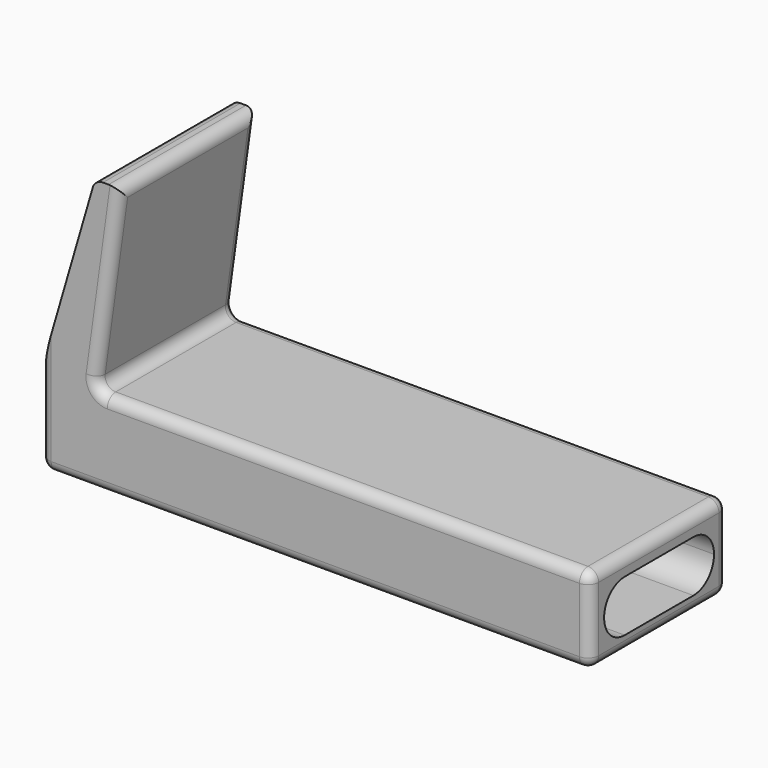
from build123d import *

# Parameters (mm, degrees)
F1_DEPTH = 25.4
F2_R     = 1.5748
F4_DEPTH = 63.5


with BuildPart() as f1:
    # F0 (on Front) → F1 (new body)
    with BuildSketch(Plane.XZ):
        with BuildLine():
            Line((-45.4608029084, -0.1458625454), (32.6695970916, -0.1458625454))
            ThreePointArc((32.6695970916, -0.1458625454), (33.7831488506, 0.3153856956), (34.2443970916, 1.4289374546))
            Line((34.2443970916, 1.4289374546), (34.2443970916, 10.9793374546))
            ThreePointArc((34.2443970916, 10.9793374546), (33.7831488506, 12.0928892136), (32.6695970916, 12.5541374546))
            Line((32.6695970916, 12.5541374546), (-37.1709763854, 12.5541374546))
            ThreePointArc((-37.1709763854, 12.5541374546), (-38.357974904, 13.0940318759), (-38.7310873695, 14.3435271969))
            Line((-38.7310873695, 14.3435271969), (-35.1672138872, 40.2536108012))
            Line((-35.1672138872, 40.2536108012), (-38.9772138872, 40.2536108012))
            Line((-38.9772138872, 40.2536108012), (-47.0356029084, 12.5541374546))
            Line((-47.0356029084, 12.5541374546), (-47.0356029084, 1.4289374546))
            ThreePointArc((-47.0356029084, 1.4289374546), (-46.5743546674, 0.3153856956), (-45.4608029084, -0.1458625454))
        make_face()
    extrude(amount=F1_DEPTH)

    # F2
    f2_edges = [f1.edges().sort_by_distance(p)[0] for p in [
        (-2.25069, -25.4, 12.554137),
        (-2.25069, 0, 12.554137),
        (-35.167214, -12.7, 40.253611),
        (-38.977214, -12.7, 40.253611),
    ]]
    fillet(f2_edges, radius=F2_R)

    # F3 (on face) → F4 (cut)
    with BuildSketch(Plane.YZ.offset(34.2443970916)):
        with BuildLine():
            ThreePointArc((-2.4841372558, 5.9495763853), (-3.6000604195, 8.6436532216), (-6.2941372558, 9.7595763853))
            Line((-6.2941372558, 9.7595763853), (-18.9941372558, 9.7595763853))
            ThreePointArc((-18.9941372558, 9.7595763853), (-21.6882140922, 8.6436532216), (-22.8041372558, 5.9495763853))
            ThreePointArc((-22.8041372558, 5.9495763853), (-21.6882140922, 3.255499549), (-18.9941372558, 2.1395763853))
            Line((-18.9941372558, 2.1395763853), (-6.2941372558, 2.1395763853))
            ThreePointArc((-6.2941372558, 2.1395763853), (-3.6000604195, 3.255499549), (-2.4841372558, 5.9495763853))
        make_face()
    extrude(amount=-F4_DEPTH, mode=Mode.SUBTRACT)


solid = f1.part
